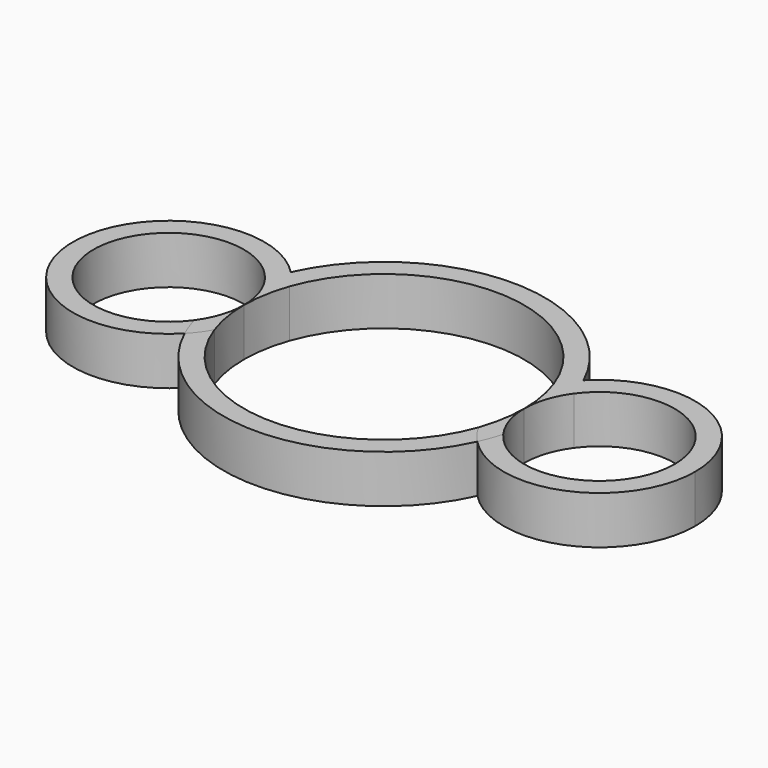
from build123d import *

# Parameters (mm, degrees)
F1_DEPTH = 7
F3_DEPTH = 7


with BuildPart() as f1:
    # F0 (on Top) → F1 (new body)
    with BuildSketch(Plane.XY):
        with BuildLine():
            ThreePointArc((-22.5952380952, 6.4579575269), (-22.0596325818, 8.1007783795), (-21.4047619048, 9.6998024619))
            ThreePointArc((-21.4047619048, 9.6998024619), (-45.5, 0), (-21.4047619048, -9.6998024619))
            ThreePointArc((-21.4047619048, -9.6998024619), (-22.0596325818, -8.1007783795), (-22.5952380952, -6.4579575269))
            ThreePointArc((-22.5952380952, -6.4579575269), (-42.5, 0), (-22.5952380952, 6.4579575269))
        make_face()
        with BuildLine():
            ThreePointArc((-19.3095238095, 6.8842058547), (0, 20.5), (19.3095238095, 6.8842058547))
            ThreePointArc((19.3095238095, 6.8842058547), (20.2685636996, 8.3579207121), (21.4047619048, 9.6998024619))
            ThreePointArc((21.4047619048, 9.6998024619), (0, 23.5), (-21.4047619048, 9.6998024619))
            ThreePointArc((-21.4047619048, 9.6998024619), (-20.2685636996, 8.3579207121), (-19.3095238095, 6.8842058547))
        make_face()
        with BuildLine():
            ThreePointArc((21.4047619048, 9.6998024619), (22.0596325818, 8.1007783795), (22.5952380952, 6.4579575269))
            ThreePointArc((22.5952380952, 6.4579575269), (34.8946736992, 10.4630870433), (42.5, 0))
            ThreePointArc((42.5, 0), (34.8946736992, -10.4630870433), (22.5952380952, -6.4579575269))
            ThreePointArc((22.5952380952, -6.4579575269), (22.0596325818, -8.1007783795), (21.4047619048, -9.6998024619))
            ThreePointArc((21.4047619048, -9.6998024619), (36.7281290471, -12.9871731592), (45.5, 0))
            ThreePointArc((45.5, 0), (36.7281290471, 12.9871731592), (21.4047619048, 9.6998024619))
        make_face()
        with BuildLine():
            ThreePointArc((-20.5, 0), (-20.2001885894, 3.493190655), (-19.3095238095, 6.8842058547))
            ThreePointArc((-19.3095238095, 6.8842058547), (-20.2685636996, 8.3579207121), (-21.4047619048, 9.6998024619))
            ThreePointArc((-21.4047619048, 9.6998024619), (-22.0596325818, 8.1007783795), (-22.5952380952, 6.4579575269))
            ThreePointArc((-22.5952380952, 6.4579575269), (-21.0369129567, 3.3946736992), (-20.5, 0))
        make_face()
        with BuildLine():
            ThreePointArc((19.3095238095, 6.8842058547), (20.2001885894, 3.493190655), (20.5, 0))
            ThreePointArc((20.5, 0), (21.0369129567, 3.3946736992), (22.5952380952, 6.4579575269))
            ThreePointArc((22.5952380952, 6.4579575269), (22.0596325818, 8.1007783795), (21.4047619048, 9.6998024619))
            ThreePointArc((21.4047619048, 9.6998024619), (20.2685636996, 8.3579207121), (19.3095238095, 6.8842058547))
        make_face()
    extrude(amount=F1_DEPTH)


with BuildPart() as f1b:
    # F0 (on Top) → F1, piece 2 (new body)
    with BuildSketch(Plane.XY):
        with BuildLine():
            ThreePointArc((21.4047619048, -9.6998024619), (20.2685636996, -8.3579207121), (19.3095238095, -6.8842058547))
            ThreePointArc((19.3095238095, -6.8842058547), (0, -20.5), (-19.3095238095, -6.8842058547))
            ThreePointArc((-19.3095238095, -6.8842058547), (-20.2685636996, -8.3579207121), (-21.4047619048, -9.6998024619))
            ThreePointArc((-21.4047619048, -9.6998024619), (0, -23.5), (21.4047619048, -9.6998024619))
        make_face()
    extrude(amount=F1_DEPTH)


with BuildPart() as f3:
    # F2 (on Top) → F3 (new body)
    with BuildSketch(Plane.XY):
        with BuildLine():
            ThreePointArc((-21.4047619048, -9.6998024619), (-20.2685636996, -8.3579207121), (-19.3095238095, -6.8842058547))
            ThreePointArc((-19.3095238095, -6.8842058547), (-20.2001885894, -3.493190655), (-20.5, 0))
            ThreePointArc((-20.5, 0), (-21.0369129567, -3.3946736992), (-22.5952380952, -6.4579575269))
            ThreePointArc((-22.5952380952, -6.4579575269), (-22.0596325818, -8.1007783795), (-21.4047619048, -9.6998024619))
        make_face()
    extrude(amount=F3_DEPTH)


with BuildPart() as f3b:
    # F2 (on Top) → F3, piece 2 (new body)
    with BuildSketch(Plane.XY):
        with BuildLine():
            ThreePointArc((22.5952380952, -6.4579575269), (21.0369129567, -3.3946736992), (20.5, 0))
            ThreePointArc((20.5, 0), (20.2001885894, -3.493190655), (19.3095238095, -6.8842058547))
            ThreePointArc((19.3095238095, -6.8842058547), (20.2685636996, -8.3579207121), (21.4047619048, -9.6998024619))
            ThreePointArc((21.4047619048, -9.6998024619), (22.0596325818, -8.1007783795), (22.5952380952, -6.4579575269))
        make_face()
    extrude(amount=F3_DEPTH)


solid = Compound([f1.part, f1b.part, f3.part, f3b.part])
